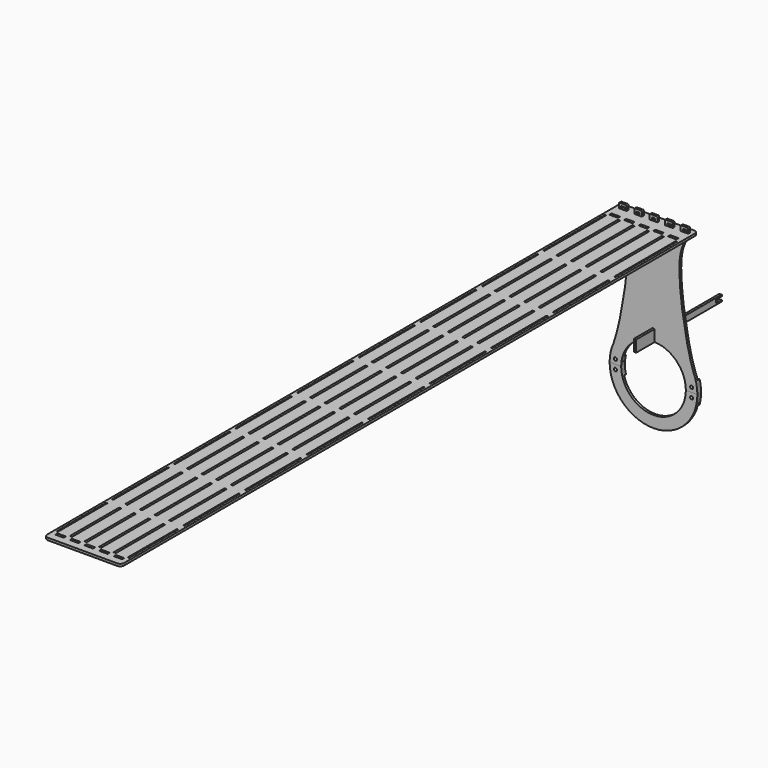
from build123d import *

# Parameters (mm, degrees)
F0_W      = 10
F0_H      = 3.1
F0_W_2    = 3
F0_H_2    = 10
F0_W_3    = 1.75
F7_DEPTH  = 3
F2_W      = 4
F2_H      = 3.1
F8_DEPTH  = 3
F4_W      = 3
F4_H      = 15.0070540008
F4_W_2    = 30
F9_DEPTH  = 3
F10_DEPTH = 3
F6_R      = 2
F11_DEPTH = 25
F12_DEPTH = 3


with BuildPart() as f7:
    # F0 (on Top) → F7 (new body)
    with BuildSketch(Plane.XY):
        with BuildLine():
            Line((45, 475), (-45, 475))
            ThreePointArc((-45, 475), (-48.5355339059, 473.5355339059), (-50, 470))
            Line((-50, 470), (-50, -456.75))
            ThreePointArc((-50, -456.75), (-48.5355339059, -460.2855339059), (-45, -461.75))
            Line((-45, -461.75), (45, -461.75))
            ThreePointArc((45, -461.75), (48.5355339059, -460.2855339059), (50, -456.75))
            Line((50, -456.75), (50, 470))
            ThreePointArc((50, 470), (48.5355339059, 473.5355339059), (45, 475))
        make_face()
        with BuildLine():
            Line((-43, -448.25), (-33, -448.25))
            ThreePointArc((-33, -448.25), (-32.6464466094, -448.3964466094), (-32.5, -448.75))
            Line((-32.5, -448.75), (-32.5, -451.25))
            ThreePointArc((-32.5, -451.25), (-32.6464466094, -451.6035533906), (-33, -451.75))
            Line((-33, -451.75), (-43, -451.75))
            ThreePointArc((-43, -451.75), (-43.3535533906, -451.6035533906), (-43.5, -451.25))
            Line((-43.5, -451.25), (-43.5, -448.75))
            ThreePointArc((-43.5, -448.75), (-43.3535533906, -448.3964466094), (-43, -448.25))
        make_face(mode=Mode.SUBTRACT)
        with BuildLine():
            Line((-24, -448.25), (-14, -448.25))
            ThreePointArc((-14, -448.25), (-13.6464466094, -448.3964466094), (-13.5, -448.75))
            Line((-13.5, -448.75), (-13.5, -451.25))
            ThreePointArc((-13.5, -451.25), (-13.6464466094, -451.6035533906), (-14, -451.75))
            Line((-14, -451.75), (-24, -451.75))
            ThreePointArc((-24, -451.75), (-24.3535533906, -451.6035533906), (-24.5, -451.25))
            Line((-24.5, -451.25), (-24.5, -448.75))
            ThreePointArc((-24.5, -448.75), (-24.3535533906, -448.3964466094), (-24, -448.25))
        make_face(mode=Mode.SUBTRACT)
        with BuildLine():
            Line((-5.5, -451.25), (-5.5, -448.75))
            ThreePointArc((-5.5, -448.75), (-5.3535533906, -448.3964466094), (-5, -448.25))
            Line((-5, -448.25), (5, -448.25))
            ThreePointArc((5, -448.25), (5.3535533906, -448.3964466094), (5.5, -448.75))
            Line((5.5, -448.75), (5.5, -451.25))
            ThreePointArc((5.5, -451.25), (5.3535533906, -451.6035533906), (5, -451.75))
            Line((5, -451.75), (-5, -451.75))
            ThreePointArc((-5, -451.75), (-5.3535533906, -451.6035533906), (-5.5, -451.25))
        make_face(mode=Mode.SUBTRACT)
        Polygon((-47, 345), (-47, 445), (-45.25, 445), (-45.25, 345), (-45.25, 335), (-45.25, 245), (-45.25, 235), (-45.25, 145), (-45.25, 135), (-45.25, 45), (-45.25, 35), (-45.25, -55), (-45.25, -65), (-45.25, -155), (-45.25, -165), (-45.25, -255), (-45.25, -265), (-45.25, -355), (-45.25, -365), (-45.25, -445), (-47, -445), (-47, -365), (-47, -355), (-47, -265), (-47, -255), (-47, -165), (-47, -155), (-47, -65), (-47, -55), (-47, 35), (-47, 45), (-47, 135), (-47, 145), (-47, 235), (-47, 245), (-47, 335), align=None, mode=Mode.SUBTRACT)
        Polygon((-30, 345), (-30, 445), (-27, 445), (-27, 345), (-27, 335), (-27, 245), (-27, 235), (-27, 145), (-27, 135), (-27, 45), (-27, 35), (-27, -55), (-27, -65), (-27, -155), (-27, -165), (-27, -255), (-27, -265), (-27, -355), (-27, -365), (-27, -445), (-30, -445), (-30, -365), (-30, -355), (-30, -265), (-30, -255), (-30, -165), (-30, -155), (-30, -65), (-30, -55), (-30, 35), (-30, 45), (-30, 135), (-30, 145), (-30, 235), (-30, 245), (-30, 335), align=None, mode=Mode.SUBTRACT)
        Polygon((-11, 345), (-11, 445), (-8, 445), (-8, 345), (-8, 335), (-8, 245), (-8, 235), (-8, 145), (-8, 135), (-8, 45), (-8, 35), (-8, -55), (-8, -65), (-8, -155), (-8, -165), (-8, -255), (-8, -265), (-8, -355), (-8, -365), (-8, -445), (-11, -445), (-11, -365), (-11, -355), (-11, -265), (-11, -255), (-11, -165), (-11, -155), (-11, -65), (-11, -55), (-11, 35), (-11, 45), (-11, 135), (-11, 145), (-11, 235), (-11, 245), (-11, 335), align=None, mode=Mode.SUBTRACT)
        with BuildLine():
            Line((14, -448.25), (24, -448.25))
            ThreePointArc((24, -448.25), (24.3535533906, -448.3964466094), (24.5, -448.75))
            Line((24.5, -448.75), (24.5, -451.25))
            ThreePointArc((24.5, -451.25), (24.3535533906, -451.6035533906), (24, -451.75))
            Line((24, -451.75), (14, -451.75))
            ThreePointArc((14, -451.75), (13.6464466094, -451.6035533906), (13.5, -451.25))
            Line((13.5, -451.25), (13.5, -448.75))
            ThreePointArc((13.5, -448.75), (13.6464466094, -448.3964466094), (14, -448.25))
        make_face(mode=Mode.SUBTRACT)
        with BuildLine():
            Line((32.5, -451.25), (32.5, -448.75))
            ThreePointArc((32.5, -448.75), (32.6464466094, -448.3964466094), (33, -448.25))
            Line((33, -448.25), (43, -448.25))
            ThreePointArc((43, -448.25), (43.3535533906, -448.3964466094), (43.5, -448.75))
            Line((43.5, -448.75), (43.5, -451.25))
            ThreePointArc((43.5, -451.25), (43.3535533906, -451.6035533906), (43, -451.75))
            Line((43, -451.75), (33, -451.75))
            ThreePointArc((33, -451.75), (32.6464466094, -451.6035533906), (32.5, -451.25))
        make_face(mode=Mode.SUBTRACT)
        Polygon((8, 345), (8, 445), (11, 445), (11, 345), (11, 335), (11, 245), (11, 235), (11, 145), (11, 135), (11, 45), (11, 35), (11, -55), (11, -65), (11, -155), (11, -165), (11, -255), (11, -265), (11, -355), (11, -365), (11, -445), (8, -445), (8, -365), (8, -355), (8, -265), (8, -255), (8, -165), (8, -155), (8, -65), (8, -55), (8, 35), (8, 45), (8, 135), (8, 145), (8, 235), (8, 245), (8, 335), align=None, mode=Mode.SUBTRACT)
        Polygon((27, 345), (27, 445), (30, 445), (30, 345), (30, 335), (30, 245), (30, 235), (30, 145), (30, 135), (30, 45), (30, 35), (30, -55), (30, -65), (30, -155), (30, -165), (30, -255), (30, -265), (30, -355), (30, -365), (30, -445), (27, -445), (27, -365), (27, -355), (27, -265), (27, -255), (27, -165), (27, -155), (27, -65), (27, -55), (27, 35), (27, 45), (27, 135), (27, 145), (27, 235), (27, 245), (27, 335), align=None, mode=Mode.SUBTRACT)
        Polygon((45.25, 445), (47, 445), (47, 345), (47, 335), (47, 245), (47, 235), (47, 145), (47, 135), (47, 45), (47, 35), (47, -55), (47, -65), (47, -155), (47, -165), (47, -255), (47, -265), (47, -355), (47, -365), (47, -445), (45.25, -445), (45.25, -365), (45.25, -355), (45.25, -265), (45.25, -255), (45.25, -165), (45.25, -155), (45.25, -65), (45.25, -55), (45.25, 35), (45.25, 45), (45.25, 135), (45.25, 145), (45.25, 235), (45.25, 245), (45.25, 335), (45.25, 345), align=None, mode=Mode.SUBTRACT)
        with BuildLine():
            ThreePointArc((-43.5, 451.25), (-43.3535533906, 451.6035533906), (-43, 451.75))
            Line((-43, 451.75), (-33, 451.75))
            ThreePointArc((-33, 451.75), (-32.6464466094, 451.6035533906), (-32.5, 451.25))
            Line((-32.5, 451.25), (-32.5, 448.75))
            ThreePointArc((-32.5, 448.75), (-32.6464466094, 448.3964466094), (-33, 448.25))
            Line((-33, 448.25), (-43, 448.25))
            ThreePointArc((-43, 448.25), (-43.3535533906, 448.3964466094), (-43.5, 448.75))
            Line((-43.5, 448.75), (-43.5, 451.25))
        make_face(mode=Mode.SUBTRACT)
        with Locations((-40, 467)):
            Rectangle(F0_W, F0_H, mode=Mode.SUBTRACT)
        with BuildLine():
            ThreePointArc((-24.5, 451.25), (-24.3535533906, 451.6035533906), (-24, 451.75))
            Line((-24, 451.75), (-14, 451.75))
            ThreePointArc((-14, 451.75), (-13.6464466094, 451.6035533906), (-13.5, 451.25))
            Line((-13.5, 451.25), (-13.5, 448.75))
            ThreePointArc((-13.5, 448.75), (-13.6464466094, 448.3964466094), (-14, 448.25))
            Line((-14, 448.25), (-24, 448.25))
            ThreePointArc((-24, 448.25), (-24.3535533906, 448.3964466094), (-24.5, 448.75))
            Line((-24.5, 448.75), (-24.5, 451.25))
        make_face(mode=Mode.SUBTRACT)
        with Locations((-20, 467)):
            Rectangle(F0_W, F0_H, mode=Mode.SUBTRACT)
        with BuildLine():
            ThreePointArc((-5.5, 451.25), (-5.3535533906, 451.6035533906), (-5, 451.75))
            Line((-5, 451.75), (5, 451.75))
            ThreePointArc((5, 451.75), (5.3535533906, 451.6035533906), (5.5, 451.25))
            Line((5.5, 451.25), (5.5, 448.75))
            ThreePointArc((5.5, 448.75), (5.3535533906, 448.3964466094), (5, 448.25))
            Line((5, 448.25), (-5, 448.25))
            ThreePointArc((-5, 448.25), (-5.3535533906, 448.3964466094), (-5.5, 448.75))
            Line((-5.5, 448.75), (-5.5, 451.25))
        make_face(mode=Mode.SUBTRACT)
        with Locations((0, 467)):
            Rectangle(F0_W, F0_H, mode=Mode.SUBTRACT)
        with BuildLine():
            ThreePointArc((13.5, 451.25), (13.6464466094, 451.6035533906), (14, 451.75))
            Line((14, 451.75), (24, 451.75))
            ThreePointArc((24, 451.75), (24.3535533906, 451.6035533906), (24.5, 451.25))
            Line((24.5, 451.25), (24.5, 448.75))
            ThreePointArc((24.5, 448.75), (24.3535533906, 448.3964466094), (24, 448.25))
            Line((24, 448.25), (14, 448.25))
            ThreePointArc((14, 448.25), (13.6464466094, 448.3964466094), (13.5, 448.75))
            Line((13.5, 448.75), (13.5, 451.25))
        make_face(mode=Mode.SUBTRACT)
        with Locations((20, 467)):
            Rectangle(F0_W, F0_H, mode=Mode.SUBTRACT)
        with BuildLine():
            ThreePointArc((32.5, 451.25), (32.6464466094, 451.6035533906), (33, 451.75))
            Line((33, 451.75), (43, 451.75))
            ThreePointArc((43, 451.75), (43.3535533906, 451.6035533906), (43.5, 451.25))
            Line((43.5, 451.25), (43.5, 448.75))
            ThreePointArc((43.5, 448.75), (43.3535533906, 448.3964466094), (43, 448.25))
            Line((43, 448.25), (33, 448.25))
            ThreePointArc((33, 448.25), (32.6464466094, 448.3964466094), (32.5, 448.75))
            Line((32.5, 448.75), (32.5, 451.25))
        make_face(mode=Mode.SUBTRACT)
        with Locations((40, 467)):
            Rectangle(F0_W, F0_H, mode=Mode.SUBTRACT)
        with Locations((-28.5, -160)):
            Rectangle(F0_W_2, F0_H_2)
        with Locations((-9.5, -160)):
            Rectangle(F0_W_2, F0_H_2)
        with Locations((9.5, -160)):
            Rectangle(F0_W_2, F0_H_2)
        with Locations((28.5, -160)):
            Rectangle(F0_W_2, F0_H_2)
        with Locations((-28.5, -260)):
            Rectangle(F0_W_2, F0_H_2)
        with Locations((-9.5, -260)):
            Rectangle(F0_W_2, F0_H_2)
        with Locations((9.5, -260)):
            Rectangle(F0_W_2, F0_H_2)
        with Locations((28.5, -260)):
            Rectangle(F0_W_2, F0_H_2)
        with Locations((-28.5, -360)):
            Rectangle(F0_W_2, F0_H_2)
        with Locations((-9.5, -360)):
            Rectangle(F0_W_2, F0_H_2)
        with Locations((28.5, -360)):
            Rectangle(F0_W_2, F0_H_2)
        with Locations((9.5, -360)):
            Rectangle(F0_W_2, F0_H_2)
        with Locations((-28.5, -60)):
            Rectangle(F0_W_2, F0_H_2)
        with Locations((-9.5, -60)):
            Rectangle(F0_W_2, F0_H_2)
        with Locations((9.5, -60)):
            Rectangle(F0_W_2, F0_H_2)
        with Locations((28.5, -60)):
            Rectangle(F0_W_2, F0_H_2)
        with Locations((-28.5, 40)):
            Rectangle(F0_W_2, F0_H_2)
        with Locations((-9.5, 40)):
            Rectangle(F0_W_2, F0_H_2)
        with Locations((9.5, 40)):
            Rectangle(F0_W_2, F0_H_2)
        with Locations((28.5, 40)):
            Rectangle(F0_W_2, F0_H_2)
        with Locations((-28.5, 140)):
            Rectangle(F0_W_2, F0_H_2)
        with Locations((-9.5, 140)):
            Rectangle(F0_W_2, F0_H_2)
        with Locations((9.5, 140)):
            Rectangle(F0_W_2, F0_H_2)
        with Locations((28.5, 140)):
            Rectangle(F0_W_2, F0_H_2)
        with Locations((-28.5, 240)):
            Rectangle(F0_W_2, F0_H_2)
        with Locations((-9.5, 240)):
            Rectangle(F0_W_2, F0_H_2)
        with Locations((9.5, 240)):
            Rectangle(F0_W_2, F0_H_2)
        with Locations((28.5, 240)):
            Rectangle(F0_W_2, F0_H_2)
        with Locations((-28.5, 340)):
            Rectangle(F0_W_2, F0_H_2)
        with Locations((-9.5, 340)):
            Rectangle(F0_W_2, F0_H_2)
        with Locations((9.5, 340)):
            Rectangle(F0_W_2, F0_H_2)
        with Locations((28.5, 340)):
            Rectangle(F0_W_2, F0_H_2)
        with Locations((-46.125, -160)):
            Rectangle(F0_W_3, F0_H_2)
        with Locations((46.125, -160)):
            Rectangle(F0_W_3, F0_H_2)
        with Locations((-46.125, -260)):
            Rectangle(F0_W_3, F0_H_2)
        with Locations((46.125, -260)):
            Rectangle(F0_W_3, F0_H_2)
        with Locations((-46.125, -360)):
            Rectangle(F0_W_3, F0_H_2)
        with Locations((46.125, -360)):
            Rectangle(F0_W_3, F0_H_2)
        with Locations((-46.125, -60)):
            Rectangle(F0_W_3, F0_H_2)
        with Locations((46.125, -60)):
            Rectangle(F0_W_3, F0_H_2)
        with Locations((-46.125, 40)):
            Rectangle(F0_W_3, F0_H_2)
        with Locations((46.125, 40)):
            Rectangle(F0_W_3, F0_H_2)
        with Locations((-46.125, 140)):
            Rectangle(F0_W_3, F0_H_2)
        with Locations((46.125, 140)):
            Rectangle(F0_W_3, F0_H_2)
        with Locations((-46.125, 240)):
            Rectangle(F0_W_3, F0_H_2)
        with Locations((46.125, 240)):
            Rectangle(F0_W_3, F0_H_2)
        with Locations((-46.125, 340)):
            Rectangle(F0_W_3, F0_H_2)
        with Locations((46.125, 340)):
            Rectangle(F0_W_3, F0_H_2)
    extrude(amount=F7_DEPTH)


with BuildPart() as f8:
    # F2 (on line) → F8 (new body)
    with BuildSketch(Plane(origin=(0, 465.45, 0), x_dir=(-1, 0, 0), z_dir=(0, 1, 0))):
        with BuildLine():
            add(Edge.make_bspline(
                [(45, 0), (40.7788364855, -7.1079914795), (25.5458005581, -27.0309715995), (41.9631663478, -125.083278874), (51.8777336471, -153.3843113241)],
                knots=[0, 0, 0, 0, 0.3312049857, 1, 1, 1, 1], degree=3))
            Line((45, 0), (45, 8.6))
            ThreePointArc((45, 8.6), (44.7071067812, 9.3071067812), (44, 9.6))
            Line((44, 9.6), (36, 9.6))
            ThreePointArc((36, 9.6), (35.2928932188, 9.3071067812), (35, 8.6))
            Line((35, 8.6), (35, 0))
            Line((35, 0), (25, 0))
            Line((25, 0), (25, 8.6))
            ThreePointArc((25, 8.6), (24.7071067812, 9.3071067812), (24, 9.6))
            Line((24, 9.6), (16, 9.6))
            ThreePointArc((16, 9.6), (15.2928932188, 9.3071067812), (15, 8.6))
            Line((15, 8.6), (15, 0))
            Line((15, 0), (5, 0))
            Line((5, 0), (5, 8.6))
            ThreePointArc((5, 8.6), (4.7071067812, 9.3071067812), (4, 9.6))
            Line((4, 9.6), (-4, 9.6))
            ThreePointArc((-4, 9.6), (-4.7071067812, 9.3071067812), (-5, 8.6))
            Line((-5, 8.6), (-5, 0))
            Line((-5, 0), (-15, 0))
            Line((-15, 0), (-15, 8.6))
            ThreePointArc((-15, 8.6), (-15.2928932188, 9.3071067812), (-16, 9.6))
            Line((-16, 9.6), (-24, 9.6))
            ThreePointArc((-24, 9.6), (-24.7071067812, 9.3071067812), (-25, 8.6))
            Line((-25, 8.6), (-25, 0))
            Line((-25, 0), (-35, 0))
            Line((-35, 0), (-35, 8.6))
            ThreePointArc((-35, 8.6), (-35.2928932188, 9.3071067812), (-36, 9.6))
            Line((-36, 9.6), (-44, 9.6))
            ThreePointArc((-44, 9.6), (-44.7071067812, 9.3071067812), (-45, 8.6))
            Line((-45, 8.6), (-45, 0))
            add(Edge.make_bspline(
                [(-45, 0), (-40.7788364855, -7.1079914795), (-25.5458005581, -27.0309715995), (-41.9631663478, -125.083278874), (-51.8777336471, -153.3843113241)],
                knots=[0, 0, 0, 0, 0.3312049857, 1, 1, 1, 1], degree=3))
            ThreePointArc((-51.8777336471, -153.3843113241), (-31.4737074857, -129.4773134481), (-1.5, -120.0197402603))
            ThreePointArc((-1.5, -120.0197402603), (0, -120), (1.5, -120.0197402603))
            ThreePointArc((1.5, -120.0197402603), (31.4737074857, -129.4773134481), (51.8777336471, -153.3843113241))
        make_face()
        with Locations((-40, 5.05)):
            Rectangle(F2_W, F2_H, mode=Mode.SUBTRACT)
        with Locations((-20, 5.05)):
            Rectangle(F2_W, F2_H, mode=Mode.SUBTRACT)
        with Locations((0, 5.05)):
            Rectangle(F2_W, F2_H, mode=Mode.SUBTRACT)
        with Locations((20, 5.05)):
            Rectangle(F2_W, F2_H, mode=Mode.SUBTRACT)
        with Locations((40, 5.05)):
            Rectangle(F2_W, F2_H, mode=Mode.SUBTRACT)
        with BuildLine():
            ThreePointArc((57, -177), (55.7047162181, -164.9175916698), (51.8777336471, -153.3843113241))
            ThreePointArc((51.8777336471, -153.3843113241), (31.4737074857, -129.4773134481), (1.5, -120.0197402603))
            Line((1.5, -120.0197402603), (1.5, -135.0267942611))
            ThreePointArc((1.5, -135.0267942611), (30.2241625194, -147.8366668572), (42, -177))
            Line((42, -177), (57, -177))
        make_face()
        with BuildLine():
            ThreePointArc((-51.8777336471, -153.3843113241), (-55.7047162181, -164.9175916698), (-57, -177))
            Line((-57, -177), (-42, -177))
            ThreePointArc((-42, -177), (-30.2241625194, -147.8366668572), (-1.5, -135.0267942611))
            Line((-1.5, -135.0267942611), (-1.5, -120.0197402603))
            ThreePointArc((-1.5, -120.0197402603), (-31.4737074857, -129.4773134481), (-51.8777336471, -153.3843113241))
        make_face()
    extrude(amount=F8_DEPTH)


with BuildPart() as f9:
    # F4 (on line) → F9 (new body)
    with BuildSketch(Plane(origin=(-1.5, 0, 0), x_dir=(0, -1, 0), z_dir=(-1, 0, 0))):
        Polygon((-468.45, -135.0267942611), (-468.45, -120.0197402603), (-468.45, -65.0267942611), (-491.5928571429, -125.0267942611), (-494.6785714286, -133.0267942611), (-495.45, -135.0267942611), (-480.45, -135.0267942611), align=None)
        with Locations((-466.95, -127.5232672607)):
            Rectangle(F4_W, F4_H)
        with Locations((-450.45, -127.5232672607)):
            Rectangle(F4_W_2, F4_H)
        Polygon((-481.1494614872, -136.5267942611), (-480.45, -135.0267942611), (-495.45, -135.0267942611), (-495.45, -136.5267942611), align=None)
        with BuildLine():
            Line((-494.6785714286, -133.0267942611), (-491.5928571429, -125.0267942611))
            Line((-491.5928571429, -125.0267942611), (-574.1785714286, -125.0267942611))
            ThreePointArc((-574.1785714286, -125.0267942611), (-574.5321248192, -125.1732408705), (-574.6785714286, -125.5267942611))
            Line((-574.6785714286, -125.5267942611), (-574.6785714286, -126.5267942611))
            ThreePointArc((-574.6785714286, -126.5267942611), (-574.5321248192, -126.8803476517), (-574.1785714286, -127.0267942611))
            Line((-574.1785714286, -127.0267942611), (-564.6785714286, -127.0267942611))
            Line((-564.6785714286, -127.0267942611), (-564.6785714286, -131.0267942611))
            Line((-564.6785714286, -131.0267942611), (-574.1785714286, -131.0267942611))
            ThreePointArc((-574.1785714286, -131.0267942611), (-574.5321248192, -131.1732408705), (-574.6785714286, -131.5267942611))
            Line((-574.6785714286, -131.5267942611), (-574.6785714286, -132.5267942611))
            ThreePointArc((-574.6785714286, -132.5267942611), (-574.5321248192, -132.8803476517), (-574.1785714286, -133.0267942611))
            Line((-574.1785714286, -133.0267942611), (-494.6785714286, -133.0267942611))
        make_face()
    extrude(amount=-F9_DEPTH)


with BuildPart() as f10:
    # F2 (on line) → F10 (new body)
    with BuildSketch(Plane(origin=(0, 465.45, 0), x_dir=(-1, 0, 0), z_dir=(0, 1, 0))):
        with BuildLine():
            ThreePointArc((-57, -177), (0, -234), (57, -177))
            Line((57, -177), (42, -177))
            ThreePointArc((42, -177), (0, -219), (-42, -177))
            Line((-42, -177), (-57, -177))
        make_face()
    extrude(amount=F10_DEPTH)


with BuildPart() as f11_tool:
    # F6 (on offset) → F11 (new body)
    with BuildSketch(Plane(origin=(0, 468.45, 0), x_dir=(-1, 0, 0), z_dir=(0, 1, 0))):
        with Locations((49.5, -171)):
            Circle(F6_R)
        with Locations((49.5, -183)):
            Circle(F6_R)
        with Locations((-49.5, -171)):
            Circle(F6_R)
        with Locations((-49.5, -183)):
            Circle(F6_R)
    extrude(amount=-F11_DEPTH)


with BuildPart() as f8_1:
    add(f8.part)

    # F11: cut by f11_tool
    add(f11_tool.part, mode=Mode.SUBTRACT)


with BuildPart() as f10_1:
    add(f10.part)

    # F11: cut by f11_tool
    add(f11_tool.part, mode=Mode.SUBTRACT)


with BuildPart() as f12:
    # F6 (on offset) → F12 (new body)
    with BuildSketch(Plane(origin=(0, 468.45, 0), x_dir=(-1, 0, 0), z_dir=(0, 1, 0))):
        with BuildLine():
            Line((42, -177), (57, -177))
            ThreePointArc((57, -177), (56.5123570983, -169.5600070435), (55.0577720985, -162.2473144292))
            Line((55.0577720985, -162.2473144292), (40.5688847041, -166.1296001057))
            ThreePointArc((40.5688847041, -166.1296001057), (41.6406841777, -171.5178999268), (42, -177))
        make_face()
        with Locations((49.5, -171)):
            Circle(F6_R, mode=Mode.SUBTRACT)
        with BuildLine():
            ThreePointArc((55.0577720985, -191.7526855708), (56.5123570983, -184.4399929565), (57, -177))
            Line((57, -177), (42, -177))
            ThreePointArc((42, -177), (41.6406841777, -182.4821000732), (40.5688847041, -187.8703998943))
            Line((40.5688847041, -187.8703998943), (55.0577720985, -191.7526855708))
        make_face()
        with Locations((49.5, -183)):
            Circle(F6_R, mode=Mode.SUBTRACT)
    extrude(amount=F12_DEPTH)


with BuildPart() as f12b:
    # F6 (on offset) → F12, piece 2 (new body)
    with BuildSketch(Plane(origin=(0, 468.45, 0), x_dir=(-1, 0, 0), z_dir=(0, 1, 0))):
        with BuildLine():
            Line((-40.5688847041, -166.1296001057), (-55.0577720985, -162.2473144292))
            ThreePointArc((-55.0577720985, -162.2473144292), (-56.5123570983, -169.5600070435), (-57, -177))
            Line((-57, -177), (-42, -177))
            ThreePointArc((-42, -177), (-41.6406841777, -171.5178999268), (-40.5688847041, -166.1296001057))
        make_face()
        with Locations((-49.5, -171)):
            Circle(F6_R, mode=Mode.SUBTRACT)
        with BuildLine():
            ThreePointArc((-57, -177), (-56.5123570983, -184.4399929565), (-55.0577720985, -191.7526855708))
            Line((-55.0577720985, -191.7526855708), (-40.5688847041, -187.8703998943))
            ThreePointArc((-40.5688847041, -187.8703998943), (-41.6406841777, -182.4821000732), (-42, -177))
            Line((-42, -177), (-57, -177))
        make_face()
        with Locations((-49.5, -183)):
            Circle(F6_R, mode=Mode.SUBTRACT)
    extrude(amount=F12_DEPTH)


solid = Compound([f7.part, f9.part, f8_1.part, f10_1.part, f12.part, f12b.part])
